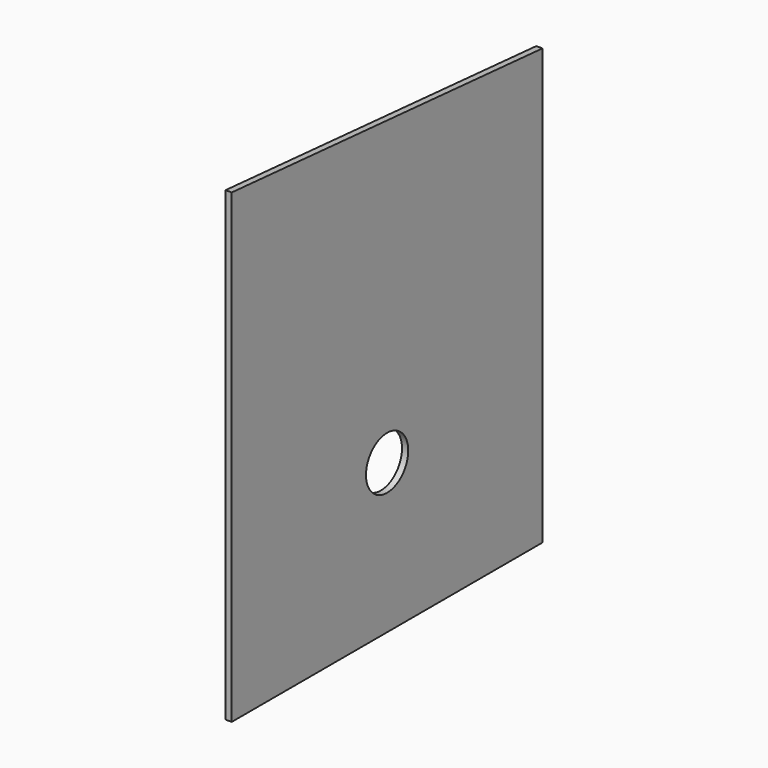
from build123d import *

# Parameters (mm, degrees)
F0_R     = 17
F1_DEPTH = 4


with BuildPart() as f1:
    # F0 (on Right) → F1 (new body)
    with BuildSketch(Plane.YZ):
        Polygon((-125, 300), (-125, 0), (125, 0), (125, 280), align=None)
        with Locations((0, 96)):
            Circle(F0_R, mode=Mode.SUBTRACT)
    extrude(amount=F1_DEPTH)


solid = f1.part
